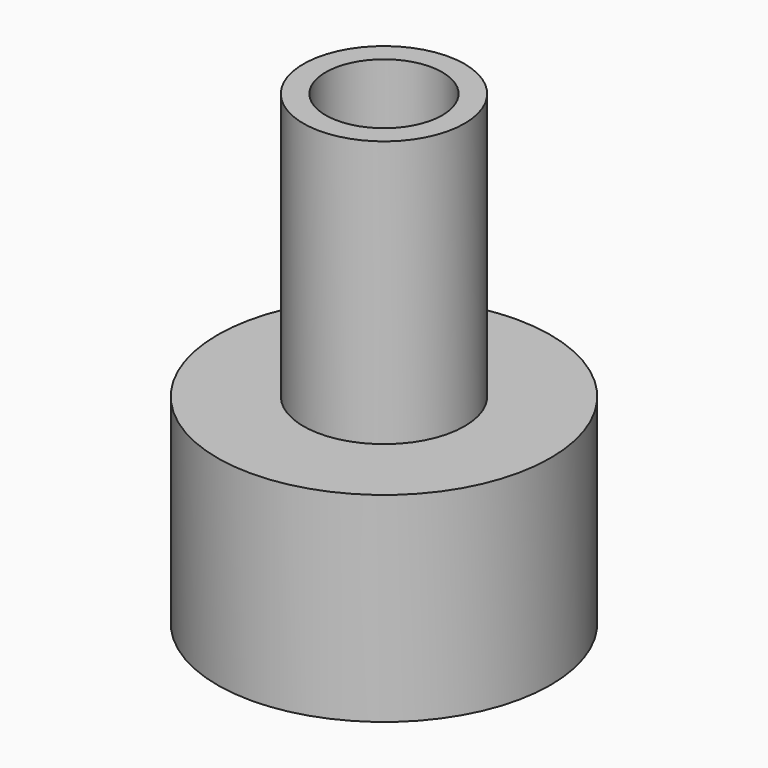
from build123d import *

# Parameters (mm, degrees)
F0_R     = 6.35
F1_DEPTH = 7.62
F2_R     = 3.0734
F3_DEPTH = 10.16
F4_R     = 2.2225
F5_DEPTH = 17.781
F7_DEPTH = 3.302


with BuildPart() as f1:
    # F0 (on Top) → F1 (new body)
    with BuildSketch(Plane.XY):
        Circle(F0_R)
    extrude(amount=F1_DEPTH)

    # F2 (on face) → F3 (join)
    with BuildSketch(Plane.XY.offset(7.62)):
        Circle(F2_R)
    extrude(amount=F3_DEPTH)

    # F4 (on face) → F5 (cut, through all)
    with BuildSketch(Plane.XY.offset(17.78)):
        Circle(F4_R)
    extrude(amount=-F5_DEPTH, mode=Mode.SUBTRACT)

    # F6 (on face) → F7 (cut)
    with BuildSketch(Plane(origin=(0, 0, 0), x_dir=(1, 0, 0), z_dir=(0, 0, -1))):
        Polygon((2.3749, 4.113447), (-2.3749, 4.113447), (-4.7498, 0), (-2.3749, -4.113447), (2.3749, -4.113447), (4.7498, 0), align=None)
    extrude(amount=-F7_DEPTH, mode=Mode.SUBTRACT)


solid = f1.part
